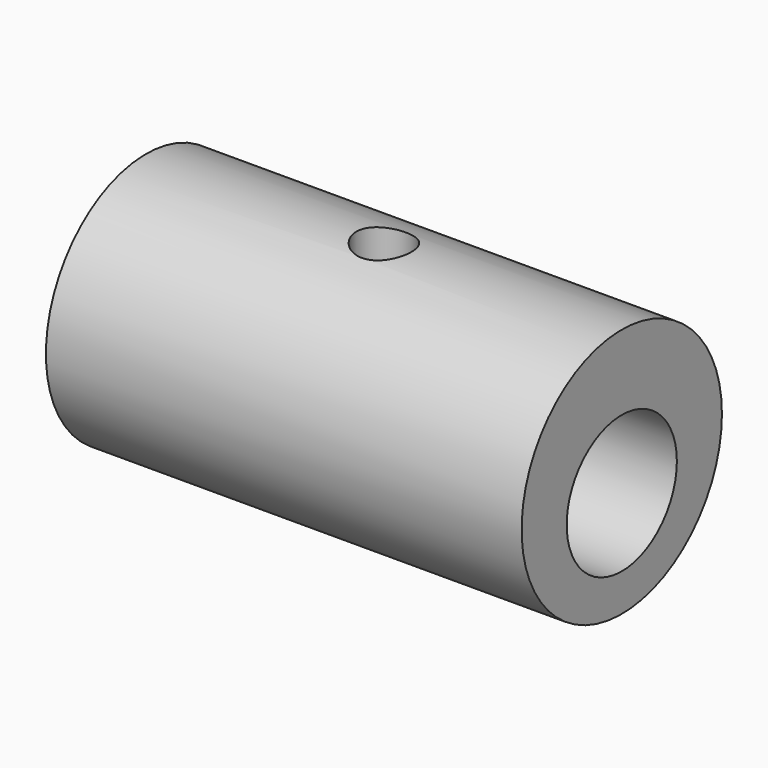
from build123d import *

# Parameters (mm, degrees)
F0_R     = 10
F0_R_2   = 5.5
F1_DEPTH = 19
F4_D     = 4.4
F4_DEPTH = 6
F4_START = 0.2450014
F4_TIP   = 1.3218933619


with BuildPart() as f1:
    # F0 (on Right) → F1 (new body, symmetric)
    with BuildSketch(Plane.YZ):
        Circle(F0_R)
        with Locations((0, -1.5)):
            Circle(F0_R_2, mode=Mode.SUBTRACT)
    extrude(amount=F1_DEPTH, both=True)

    # F4
    # its depths count from where the whole tool has entered the part; down to there all is cleared
    with Locations(Plane.XY.offset(10).offset(-F4_START)):
        with Locations((0, 0)):
            Hole(F4_D / 2, depth=F4_DEPTH)
            with Locations((0, 0, -(F4_DEPTH + F4_TIP / 2))):  # 118° drill point
                Cone(0, F4_D / 2, F4_TIP, mode=Mode.SUBTRACT)


solid = f1.part
